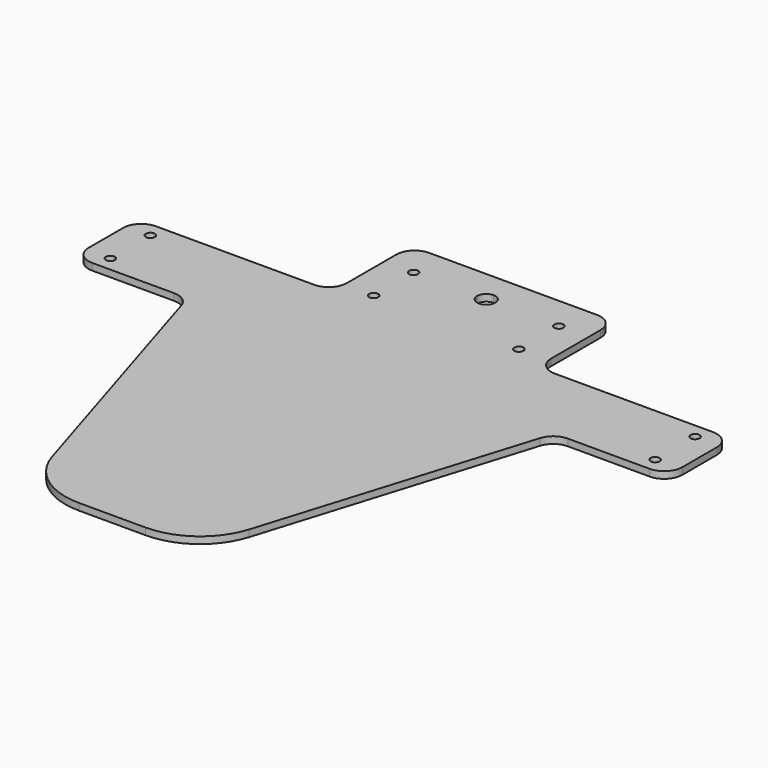
from build123d import *

# Parameters (mm, degrees)
F0_R     = 2
F1_DEPTH = 3


with BuildPart() as f1:
    # F0 (on Top) → F1 (new body)
    with BuildSketch(Plane.XY):
        with BuildLine():
            Line((-130.806759, 0), (-120, 0))
            Line((-120, 0), (0, 0))
            Line((0, 0), (0, 42))
            ThreePointArc((0, 42), (-2.828427, 43.171573), (-4, 46))
            ThreePointArc((-4, 46), (-2.828427, 48.828427), (0, 50))
            Line((0, 50), (0, 60.748842))
            Line((0, 60.748842), (-32.5, 60.748842))
            Line((-32.5, 60.748842), (-37, 60.748842))
            ThreePointArc((-37, 60.748842), (-42.656854, 58.405696), (-45, 52.748842))
            Line((-45, 52.748842), (-45, 25.5))
            ThreePointArc((-45, 25.5), (-47.343146, 19.843146), (-53, 17.5))
            Line((-53, 17.5), (-122.806759, 17.5))
            ThreePointArc((-122.806759, 17.5), (-128.463613, 15.156854), (-130.806759, 9.5))
            Line((-130.806759, 9.5), (-130.806759, 0))
        make_face()
        with BuildLine():
            ThreePointArc((-118, 11), (-118.585786, 9.585786), (-120, 9))
            ThreePointArc((-120, 9), (-121.414214, 12.414214), (-118, 11))
        make_face(mode=Mode.SUBTRACT)
        with Locations((-32, 24)):
            Circle(F0_R, mode=Mode.SUBTRACT)
        with Locations((-32, 46)):
            Circle(F0_R, mode=Mode.SUBTRACT)
        with BuildLine():
            Line((0, 42), (0, 0))
            Line((0, 0), (130.806759, 0))
            Line((130.806759, 0), (130.806759, 9.5))
            ThreePointArc((130.806759, 9.5), (128.463613, 15.156854), (122.806759, 17.5))
            Line((122.806759, 17.5), (53, 17.5))
            ThreePointArc((53, 17.5), (47.343146, 19.843146), (45, 25.5))
            Line((45, 25.5), (45, 52.748842))
            ThreePointArc((45, 52.748842), (42.656854, 58.405696), (37, 60.748842))
            Line((37, 60.748842), (32.5, 60.748842))
            Line((32.5, 60.748842), (0, 60.748842))
            Line((0, 60.748842), (0, 50))
            ThreePointArc((0, 50), (2.828427, 48.828427), (4, 46))
            ThreePointArc((4, 46), (2.828427, 43.171573), (0, 42))
        make_face()
        with Locations((32, 24)):
            Circle(F0_R, mode=Mode.SUBTRACT)
        with BuildLine():
            ThreePointArc((34, 46), (32, 44), (30, 46))
            ThreePointArc((30, 46), (32, 48), (34, 46))
        make_face(mode=Mode.SUBTRACT)
        with Locations((120, 11)):
            Circle(F0_R, mode=Mode.SUBTRACT)
        with BuildLine():
            Line((130.806759, 0), (0, 0))
            Line((0, 0), (0, -160))
            Line((0, -160), (14.737474, -160))
            ThreePointArc((14.737474, -160), (32.554546, -154.136113), (43.406465, -138.836797))
            Line((43.406465, -138.836797), (79.067226, -23.143521))
            ThreePointArc((79.067226, -23.143521), (81.961071, -19.063703), (86.71229, -17.5))
            Line((86.71229, -17.5), (122.806759, -17.5))
            ThreePointArc((122.806759, -17.5), (128.463613, -15.156854), (130.806759, -9.5))
            Line((130.806759, -9.5), (130.806759, 0))
        make_face()
        with Locations((120, -11)):
            Circle(F0_R, mode=Mode.SUBTRACT)
        with BuildLine():
            Line((0, 0), (-120, 0))
            Line((-120, 0), (-130.806759, 0))
            Line((-130.806759, 0), (-130.806759, -9.5))
            ThreePointArc((-130.806759, -9.5), (-128.463613, -15.156854), (-122.806759, -17.5))
            Line((-122.806759, -17.5), (-86.71229, -17.5))
            ThreePointArc((-86.71229, -17.5), (-81.961071, -19.063703), (-79.067226, -23.143521))
            Line((-79.067226, -23.143521), (-43.406465, -138.836797))
            ThreePointArc((-43.406465, -138.836797), (-32.554546, -154.136113), (-14.737474, -160))
            Line((-14.737474, -160), (0, -160))
            Line((0, -160), (0, 0))
        make_face()
        with BuildLine():
            ThreePointArc((-118, -11), (-121.414214, -12.414214), (-120, -9))
            ThreePointArc((-120, -9), (-118.585786, -9.585786), (-118, -11))
        make_face(mode=Mode.SUBTRACT)
    extrude(amount=F1_DEPTH)


solid = f1.part
